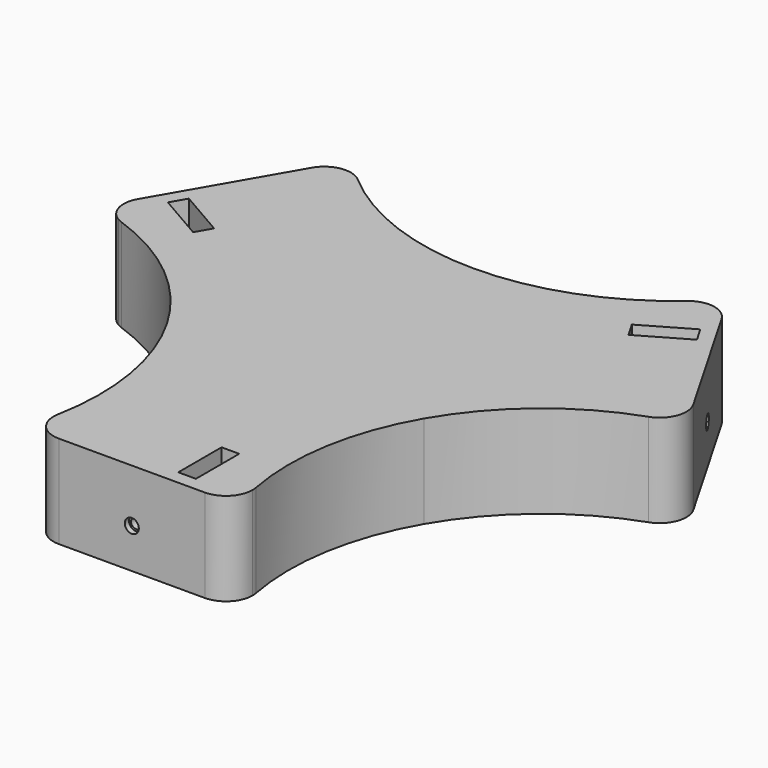
from build123d import *

# Parameters (mm, degrees)
F0_R      = 5.1
F1_DEPTH  = 35
F2_W      = 22
F2_H      = 9.65
F3_DEPTH  = 35
F4_DEPTH  = 5
F5_DEPTH  = 2.5
F6_R      = 1.9
F7_DEPTH  = 20
F6_R_2    = 2.65
F8_DEPTH  = 2
F10_DEPTH = 35
F11_COUNT = 3


with BuildPart() as f1:
    # F0 (on Top) → F1 (new body)
    with BuildSketch(Plane.XY):
        with BuildLine():
            Line((48.3891499996, -27.9374887781), (0, 0))
            Line((0, 0), (-48.3891499996, -27.9374887781))
            ThreePointArc((-48.3891499996, -27.9374887781), (-37.0005953155, -59.5433683199), (-37.3249107961, -93.1369036932))
            ThreePointArc((-37.3249107961, -93.1369036932), (-26.5643472762, -85.0438685233), (-17.5, -95))
            ThreePointArc((-17.5, -95), (-20.4289321881, -102.0710678119), (-27.5, -105))
            Line((-27.5, -105), (27.5, -105))
            ThreePointArc((27.5, -105), (19.7983455327, -88.6215583043), (37.3249107961, -93.1369036932))
            ThreePointArc((37.3249107961, -93.1369036932), (37.0005953155, -59.5433683199), (48.3891499996, -27.9374887781))
        make_face()
        with BuildLine():
            ThreePointArc((37.5, -95), (37.4561314767, -94.0643472762), (37.3249107961, -93.1369036932))
            ThreePointArc((37.3249107961, -93.1369036932), (19.7983455327, -88.6215583043), (27.5, -105))
            ThreePointArc((27.5, -105), (34.5710678119, -102.0710678119), (37.5, -95))
        make_face()
        with Locations((27.5, -95)):
            Circle(F0_R, mode=Mode.SUBTRACT)
        with BuildLine():
            ThreePointArc((-17.5, -95), (-26.5643472762, -85.0438685233), (-37.3249107961, -93.1369036932))
            ThreePointArc((-37.3249107961, -93.1369036932), (-35.2016544673, -101.3784416957), (-27.5, -105))
            ThreePointArc((-27.5, -105), (-20.4289321881, -102.0710678119), (-17.5, -95))
        make_face()
        with Locations((-27.5, -95)):
            Circle(F0_R, mode=Mode.SUBTRACT)
    extrude(amount=-F1_DEPTH)

    # F2 (on face) → F3 (cut, through all)
    with BuildSketch(Plane.XY):
        with Locations((0, -95.005)):
            Rectangle(F2_W, F2_H)
    extrude(amount=-F3_DEPTH, mode=Mode.SUBTRACT)

    # F2 (on face) → F4 (join)
    with BuildSketch(Plane.XY):
        with Locations((0, -95.005)):
            Rectangle(F2_W, F2_H)
    extrude(amount=-F4_DEPTH)

    # F0 (on Top) → F5 (join)
    with BuildSketch(Plane.XY):
        with Locations((27.5, -95)):
            Circle(F0_R)
        with Locations((-27.5, -95)):
            Circle(F0_R)
    extrude(amount=-F5_DEPTH)

    # F6 (on face) → F7 (cut)
    with BuildSketch(Plane.XZ.offset(105)):
        with Locations((0, -20)):
            Circle(F6_R)
    extrude(amount=-F7_DEPTH, mode=Mode.SUBTRACT)

    # F6 (on face) → F8 (cut)
    with BuildSketch(Plane.XZ.offset(105)):
        with Locations((0, -20)):
            Circle(F6_R_2)
        with Locations((0, -20)):
            Circle(F6_R, mode=Mode.SUBTRACT)
    extrude(amount=-F8_DEPTH, mode=Mode.SUBTRACT)

    # F9 (on face) → F10 (cut, through all)
    with BuildSketch(Plane(origin=(0, 0, -35), x_dir=(1, 0, 0), z_dir=(0, 0, -1))):
        Polygon((20.0250012255, 95.005), (20.0250012255, 99.83), (13.3750012255, 99.83), (13.3750012255, 95.005), (13.3750012255, 79.43), (20.0250012255, 79.43), align=None)
    extrude(amount=-F10_DEPTH, mode=Mode.SUBTRACT)

    # F11: F1 ×3 about axis
    f11_axis = Axis((0, 0, 0), (0, 0, 1))


with BuildPart() as f1_1:
    add(f1.part)
    for i in range(1, F11_COUNT):
        add(f1.part.rotate(f11_axis, i * 360 / F11_COUNT))


solid = f1_1.part
